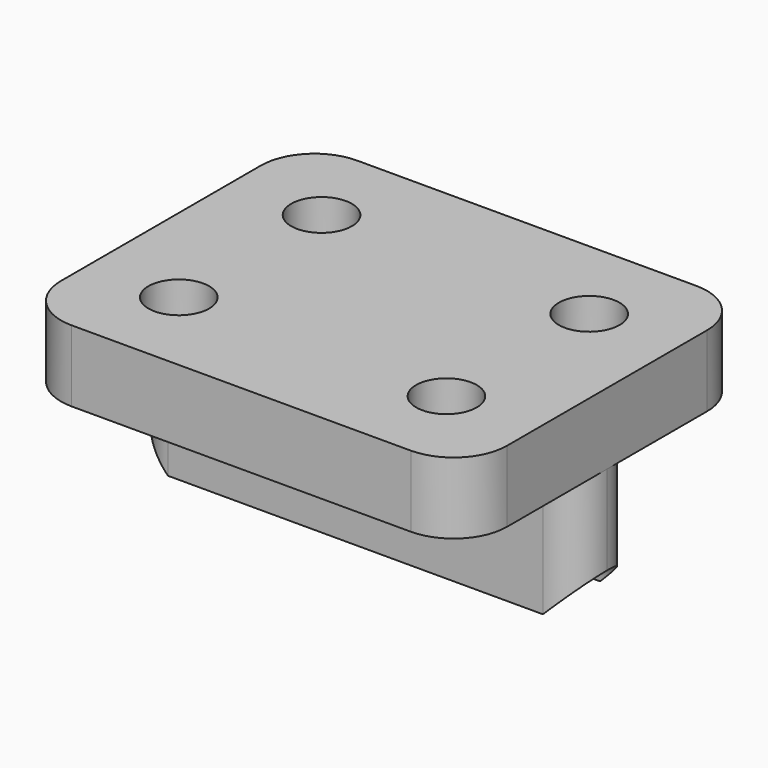
from build123d import *

# Parameters (mm, degrees)
PAD_DEPTH         = 12.5
SKETCH001_R       = 1.7
POCKET_DEPTH      = 0.001
POCKET_DEPTH_BACK = -11.001
FILLET_R          = 3
FILLET001_R       = 1.99


with BuildPart() as part:
    # Sketch → Pad (new body, symmetric)
    with BuildSketch(Plane.YZ):
        with BuildLine():
            Line((-2, 0), (-2, 7))
            Line((-2, 7), (-10, 7))
            Line((-10, 7), (-10, 11))
            Line((-10, 11), (10, 11))
            Line((10, 11), (10, 7))
            Line((10, 7), (2, 7))
            Line((2, 7), (2, 0))
            ThreePointArc((2, 0), (0, 2), (-2, 0))
        make_face()
    extrude(amount=PAD_DEPTH, both=True)

    # Sketch001 → Pocket (cut, two sides)
    with BuildSketch(Plane.XY) as pocket_sk:
        with Locations((-7.5, 5)):
            Circle(SKETCH001_R)
        with Locations((-7.5, -5)):
            Circle(SKETCH001_R)
        with Locations((7.5, 5)):
            Circle(SKETCH001_R)
        with Locations((7.5, -5)):
            Circle(SKETCH001_R)
    extrude(amount=-POCKET_DEPTH, mode=Mode.SUBTRACT)
    extrude(pocket_sk.sketch, amount=-POCKET_DEPTH_BACK, mode=Mode.SUBTRACT)

    # Fillet
    fillet_edges = [part.edges().sort_by_distance(p)[0] for p in [
        (12.5, 10, 9),
        (12.5, -10, 9),
        (-12.5, -10, 9),
        (-12.5, 10, 9),
    ]]
    fillet(fillet_edges, radius=FILLET_R)

    # Fillet001
    fillet001_edges = [part.edges().sort_by_distance(p)[0] for p in [
        (-12.5, -2, 3.5),
        (-12.5, 2, 3.5),
        (12.5, -2, 3.5),
        (12.5, 2, 3.5),
    ]]
    fillet(fillet001_edges, radius=FILLET001_R)


solid = part.part
